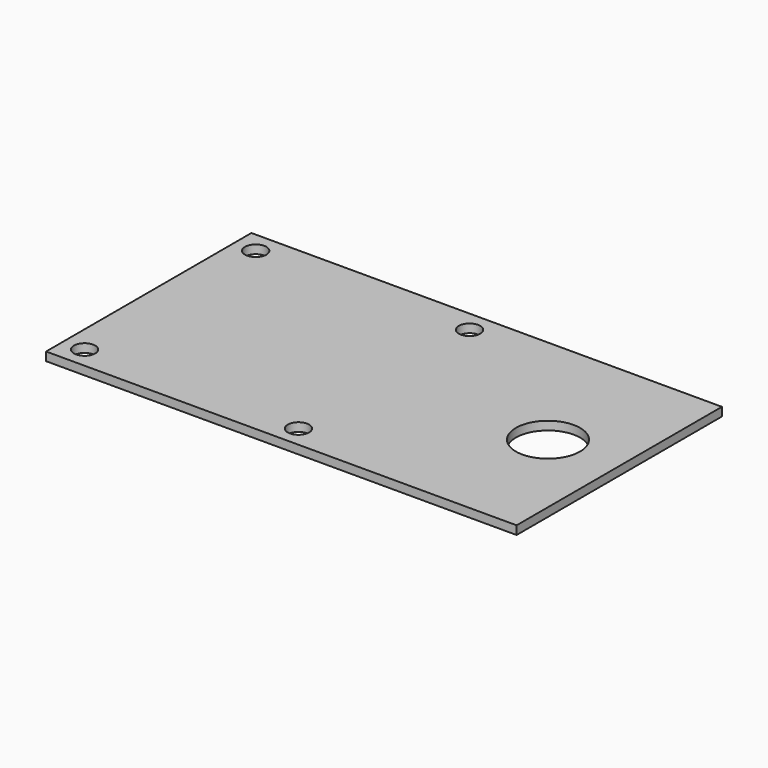
from build123d import *

# Parameters (mm, degrees)
SKETCH_W   = 66
SKETCH_H   = 36
SKETCH_R   = 1.5
SKETCH_R_2 = 4.5
PAD_DEPTH  = 1.2


with BuildPart() as part:
    # Sketch → Pad (new body)
    with BuildSketch(Plane.XY):
        with Locations((33, -18)):
            Rectangle(SKETCH_W, SKETCH_H)
        with Locations((3, -3)):
            Circle(SKETCH_R, mode=Mode.SUBTRACT)
        with Locations((33, -3)):
            Circle(SKETCH_R, mode=Mode.SUBTRACT)
        with Locations((3, -33)):
            Circle(SKETCH_R, mode=Mode.SUBTRACT)
        with Locations((33, -33)):
            Circle(SKETCH_R, mode=Mode.SUBTRACT)
        with Locations((56, -18)):
            Circle(SKETCH_R_2, mode=Mode.SUBTRACT)
    extrude(amount=PAD_DEPTH)


solid = part.part
